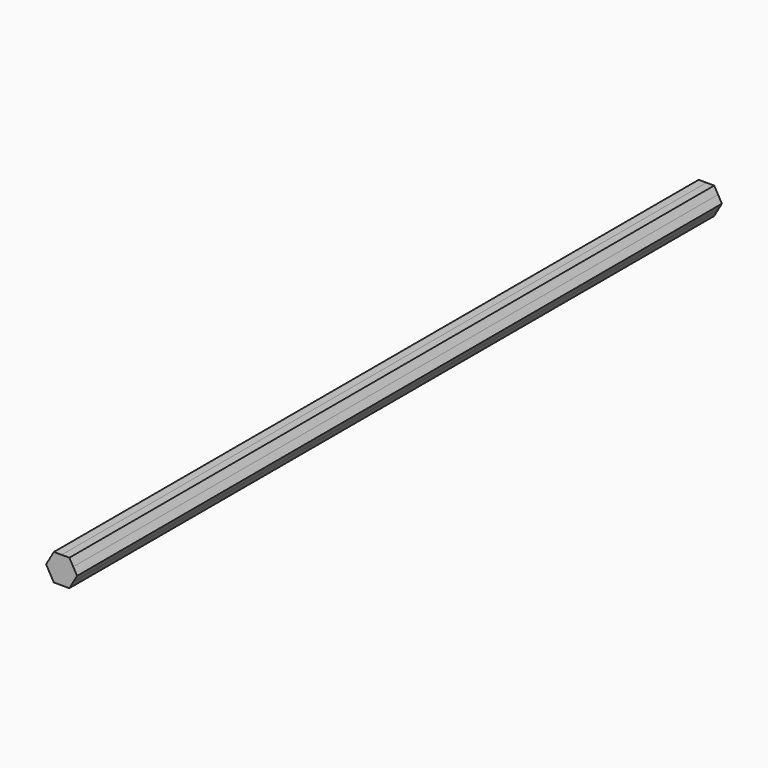
from build123d import *

# Parameters (mm, degrees)
F1_DEPTH = 762


with BuildPart() as f1:
    # F0 (on Front) → F1 (new body)
    with BuildSketch(Plane.XZ):
        with BuildLine():
            ThreePointArc((12.0655654255, -6.3708091471), (13.3432245421, -3.2986115446), (13.7790832401, 0))
            ThreePointArc((13.7790832401, 0), (13.3494470463, 3.2753888416), (12.0896073245, 6.3291673532))
            ThreePointArc((12.0896073245, 6.3291673532), (7.4498926826, 10.9864820141), (1.1031245361, 12.6999772447))
            ThreePointArc((1.1031245361, 12.6999772447), (-5.2500849121, 11.0105236252), (-9.907398921, 6.3708091892))
            ThreePointArc((-9.907398921, 6.3708091892), (-11.6208940036, 0.0240418665), (-9.9314407864, -6.3291674542))
            ThreePointArc((-9.9314407864, -6.3291674542), (-5.2917262338, -10.986481996), (1.055041755, -12.6999772443))
            ThreePointArc((1.055041755, -12.6999772443), (7.4082513314, -11.0105236602), (12.0655654255, -6.3708091471))
        make_face()
        with BuildLine():
            ThreePointArc((12.0896073245, 6.3291673532), (13.3494470463, 3.2753888416), (13.7790832401, 0))
            ThreePointArc((13.7790832401, 0), (13.3432245421, -3.2986115446), (12.0655654255, -6.3708091471))
            Line((12.0655654255, -6.3708091471), (15.7437538016, -0.027760669))
            Line((15.7437538016, -0.027760669), (12.0896073245, 6.3291673532))
        make_face()
        with BuildLine():
            ThreePointArc((1.1031245361, 12.6999772447), (7.4498926826, 10.9864820141), (12.0896073245, 6.3291673532))
            Line((12.0896073245, 6.3291673532), (8.4354599654, 12.6860969099))
            Line((8.4354599654, 12.6860969099), (1.1031245361, 12.6999772447))
        make_face()
        with BuildLine():
            Line((8.3873770762, -12.7138575789), (12.0655654255, -6.3708091471))
            ThreePointArc((12.0655654255, -6.3708091471), (7.4082513314, -11.0105236602), (1.055041755, -12.6999772443))
            Line((1.055041755, -12.6999772443), (8.3873770762, -12.7138575789))
        make_face()
        with BuildLine():
            ThreePointArc((-9.907398921, 6.3708091892), (-5.2500849121, 11.0105236252), (1.1031245361, 12.6999772447))
            Line((1.1031245361, 12.6999772447), (-6.2292105961, 12.7138575789))
            Line((-6.2292105961, 12.7138575789), (-9.907398921, 6.3708091892))
        make_face()
        with BuildLine():
            Line((-6.2772934853, -12.6860969099), (1.055041755, -12.6999772443))
            ThreePointArc((1.055041755, -12.6999772443), (-5.2917262338, -10.986481996), (-9.9314407864, -6.3291674542))
            Line((-9.9314407864, -6.3291674542), (-6.2772934853, -12.6860969099))
        make_face()
        with BuildLine():
            ThreePointArc((-9.9314407864, -6.3291674542), (-11.6208940036, 0.0240418665), (-9.907398921, 6.3708091892))
            Line((-9.907398921, 6.3708091892), (-13.5855873215, 0.027760669))
            Line((-13.5855873215, 0.027760669), (-9.9314407864, -6.3291674542))
        make_face()
    extrude(amount=F1_DEPTH)


solid = f1.part
